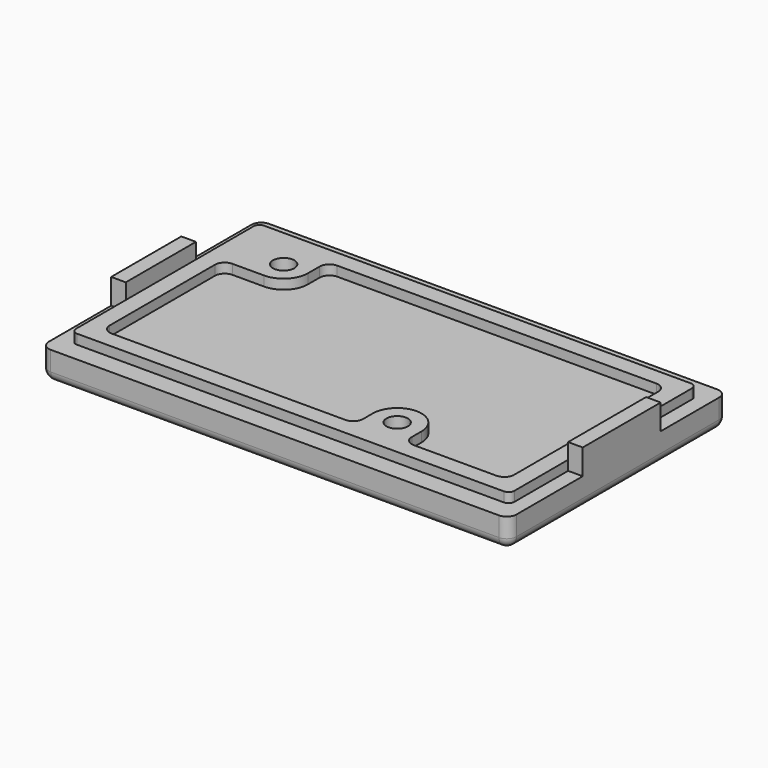
from build123d import *

# Parameters (mm, degrees)
SKETCH006_W     = 48
SKETCH006_H     = 28
PAD002_DEPTH    = 4
SKETCH007_W     = 48
SKETCH007_H     = 28
SKETCH007_W_2   = 45
SKETCH007_H_2   = 24
SKETCH007_W_3   = 41.5
SKETCH007_H_3   = 20.5
POCKET004_DEPTH = 1
PAD003_DEPTH    = 1
SKETCH009_R     = 1.1
POCKET005_DEPTH = 4.001
SKETCH010_R     = 2
POCKET006_DEPTH = 2
SKETCH011_W     = 1.5
SKETCH011_H     = 9
SKETCH011_H_2   = 10
PAD004_DEPTH    = 2.6
FILLET002_R     = 1
FILLET003_R     = 1
FILLET004_R     = 0.6


with BuildPart() as part:
    # Sketch006 → Pad002 (new body)
    with BuildSketch(Plane.XY):
        Rectangle(SKETCH006_W, SKETCH006_H)
    extrude(amount=PAD002_DEPTH)

    # Sketch007 (on Face6 of Pad002) → Pocket004 (cut)
    with BuildSketch(Plane.XY.offset(4)):
        Rectangle(SKETCH007_W, SKETCH007_H)
        Rectangle(SKETCH007_W_2, SKETCH007_H_2, mode=Mode.SUBTRACT)
        Rectangle(SKETCH007_W_3, SKETCH007_H_3)
    extrude(amount=-POCKET004_DEPTH, mode=Mode.SUBTRACT)

    # Sketch008 (on Face16 of Pocket004) → Pad003 (join)
    with BuildSketch(Plane.XY.offset(3)):
        with BuildLine():
            Line((5.25, -10.25), (5.25, -8))
            ThreePointArc((10.25, -8), (7.75, -5.5), (5.25, -8))
            Line((10.25, -10.25), (10.25, -8))
            Line((5.25, -10.25), (10.25, -10.25))
        make_face()
        with BuildLine():
            Line((-20.75, 10.25), (-20.75, 5.25))
            Line((-20.75, 5.25), (-16.5, 5.25))
            ThreePointArc((-16.5, 5.25), (-14.732233, 5.982233), (-14, 7.75))
            Line((-14, 7.75), (-14, 10.25))
            Line((-14, 10.25), (-20.75, 10.25))
        make_face()
    extrude(amount=PAD003_DEPTH)

    # Sketch009 (on Face11 of Pad003) → Pocket005 (cut, through all)
    with BuildSketch(Plane.XY.offset(4)):
        with Locations((-16.5, 7.75)):
            Circle(SKETCH009_R)
        with Locations((7.75, -8)):
            Circle(SKETCH009_R)
    extrude(amount=-POCKET005_DEPTH, mode=Mode.SUBTRACT)

    # Sketch010 (on Face2 of Pocket005) → Pocket006 (cut)
    with BuildSketch(Plane(origin=(0, 0, 0), x_dir=(1, 0, 0), z_dir=(0, 0, -1))):
        with Locations((-16.5, -7.75)):
            Circle(SKETCH010_R)
        with Locations((7.75, 8)):
            Circle(SKETCH010_R)
    extrude(amount=-POCKET006_DEPTH, mode=Mode.SUBTRACT)

    # Sketch011 (on Face4 of Pocket006) → Pad004 (join)
    with BuildSketch(Plane.XY.offset(3)):
        with Locations((-23.25, -0.5)):
            Rectangle(SKETCH011_W, SKETCH011_H)
        with Locations((23.25, 0.495)):
            Rectangle(SKETCH011_W, SKETCH011_H_2)
    extrude(amount=PAD004_DEPTH)

    # Fillet002
    fillet002_edges = [part.edges().sort_by_distance(p)[0] for p in [
        (0, -14, 0),
        (-24, 0, 0),
        (-24, -14, 1.5),
        (-24, 14, 1.5),
        (0, 14, 0),
        (24, 0, 0),
        (24, -14, 1.5),
        (24, 14, 1.5),
    ]]
    fillet(fillet002_edges, radius=FILLET002_R)

    # Fillet003
    fillet003_edges = [part.edges().sort_by_distance(p)[0] for p in [
        (5.25, -10.25, 3.5),
        (10.25, -10.25, 3.5),
        (-14, 10.25, 3.5),
        (-20.75, 5.25, 3.5),
        (-20.75, -10.25, 3.5),
        (20.75, 10.25, 3.5),
        (20.75, -10.25, 3.5),
    ]]
    fillet(fillet003_edges, radius=FILLET003_R)

    # Fillet004
    fillet004_edges = [part.edges().sort_by_distance(p)[0] for p in [
        (22.5, 12, 3.5),
        (-22.5, -12, 3.5),
        (-22.5, 12, 3.5),
        (22.5, -12, 3.5),
    ]]
    fillet(fillet004_edges, radius=FILLET004_R)


solid = part.part
